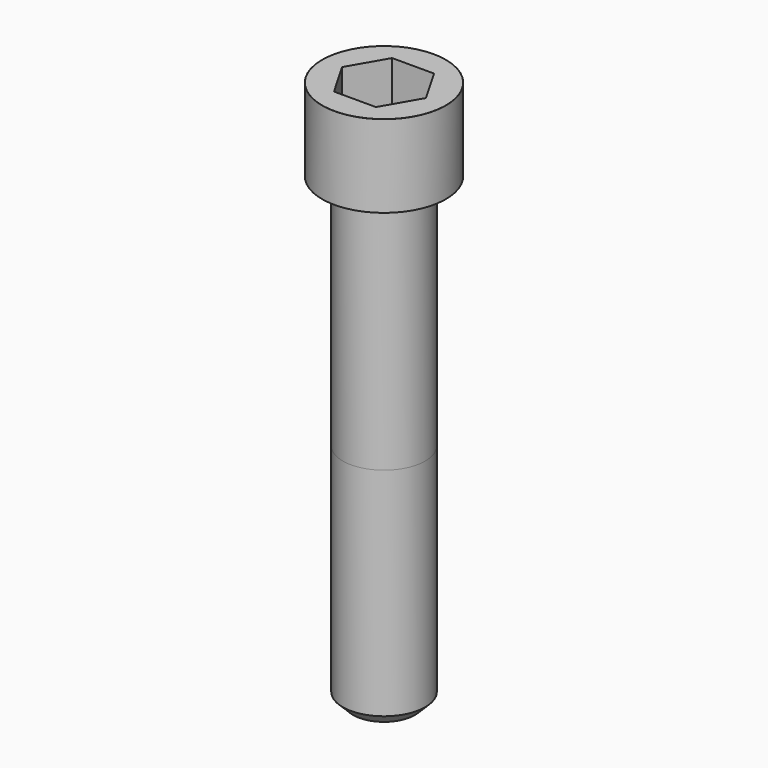
from build123d import *

# Parameters (mm, degrees)
POCKET_DEPTH = 14.08


with BuildPart() as part:
    # Sketch → Revolve (revolve)
    with BuildSketch(Plane.YZ):
        with BuildLine():
            Line((7.999, 0), (12, 0))
            Line((12, 0), (12, 15.97229))
            ThreePointArc((12, 15.97229), (11.991884, 15.991884), (11.97229, 16))
            Line((11.97229, 16), (0, 16))
            Line((0, -90), (0, 16))
            Line((6, -90), (0, -90))
            Line((8, -88), (6, -90))
            Line((8, -46), (8, -88))
            Line((7.999, 0), (8, -46))
        make_face()
    revolve(axis=Axis((0, 0, 0), (0, 0, 1)))

    # Sketch001 → Pocket (cut)
    with BuildSketch(Plane.XY.offset(16)):
        Polygon((8.129092, 0), (4.064546, 7.04), (-4.064546, 7.04), (-8.129092, 0), (-4.064546, -7.04), (4.064546, -7.04), align=None)
    extrude(amount=-POCKET_DEPTH, mode=Mode.SUBTRACT)


solid = part.part
